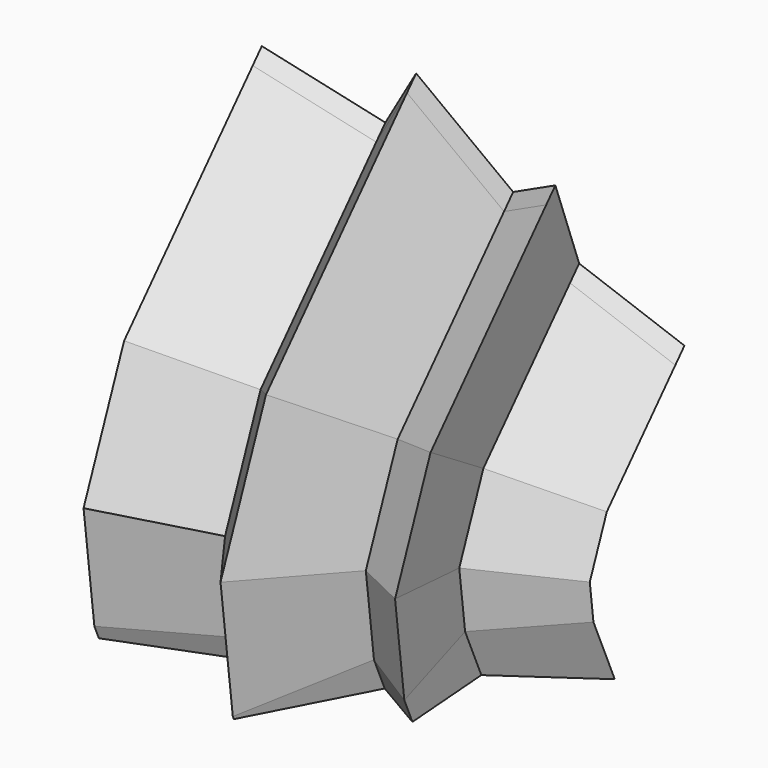
from build123d import *


with BuildPart() as f2:
    # F2: sweep along a path in F1
    with BuildLine(Plane.YZ) as f2_path:
        Line((0, 0), (-5.2080969326, 11.9427032769))
        Line((-5.2080969326, 11.9427032769), (-6.8244012073, 25.0527374446))
        Line((-6.8244012073, 25.0527374446), (0, 42.1137399971))
        Line((0, 42.1137399971), (24.9629430473, 69.5909410715))
        Line((24.9629430473, 69.5909410715), (27.7086881349, 72.6132365488))
    # F0 (on Top) → F2 (sweep)
    with BuildSketch(Plane.XY):
        Polygon((-30.889397487, 9.9672181532), (-43.9994335175, 0), (-26.5792477876, -12.6610603184), (-38.4321548045, -36.18728742), (-12.0324976742, -25.9506851435), (1.9754848909, -46.0647083819), (16.3426473737, -18.5875147581), (28.913911432, -25.9506851435), (27.118017897, -2.963226987), (47.7708093822, 11.4039340988), (8.979476057, 16.432441771), (4.3729879803, 34.6656773232), (-10.4161920026, 16.432441771), (-26.5792477876, 29.5424759388), align=None)
    sweep(path=f2_path.line, transition=Transition.RIGHT)


solid = f2.part
